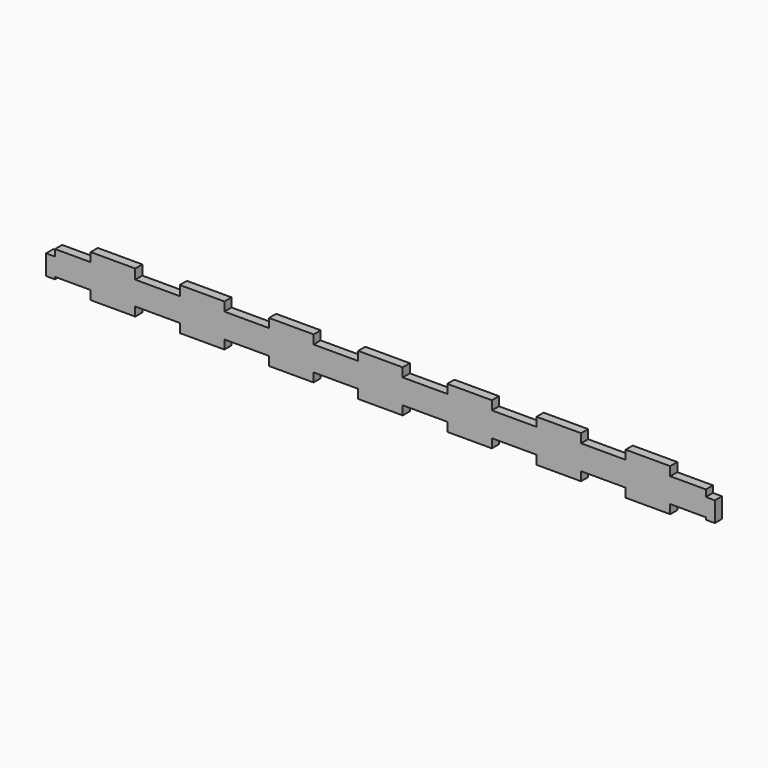
from build123d import *

# Parameters (mm, degrees)
F1_DEPTH = 4


with BuildPart() as f1:
    # F0 (on Front) → F1 (new body)
    with BuildSketch(Plane.XZ):
        Polygon((-4, 3), (0, 3), (0, 12), (-4, 12), (-4, 15), (-20, 15), (-20, 19), (-40, 19), (-40, 15), (-60, 15), (-60, 19), (-80, 19), (-80, 15), (-100, 15), (-100, 19), (-120, 19), (-120, 15), (-140, 15), (-140, 19), (-160, 19), (-160, 15), (-180, 15), (-180, 19), (-200, 19), (-200, 15), (-220, 15), (-220, 19), (-240, 19), (-240, 14.591429), (-260, 14.591429), (-260, 19), (-280, 19), (-280, 15), (-296, 15), (-296, 12), (-300, 12), (-300, 3), (-296, 3), (-296, 4), (-280, 4), (-280, 0), (-260, 0), (-260, 4), (-240, 4), (-240, 0), (-220, 0), (-220, 4), (-200, 4), (-200, 0), (-180, 0), (-180, 4), (-160, 4), (-160, 0), (-140, 0), (-140, 4), (-120, 4), (-120, 0), (-100, 0), (-100, 4), (-80, 4), (-80, 0), (-60, 0), (-60, 4), (-40, 4), (-40, 0), (-20, 0), (-20, 4), (-4, 4), align=None)
    extrude(amount=F1_DEPTH)


solid = f1.part
